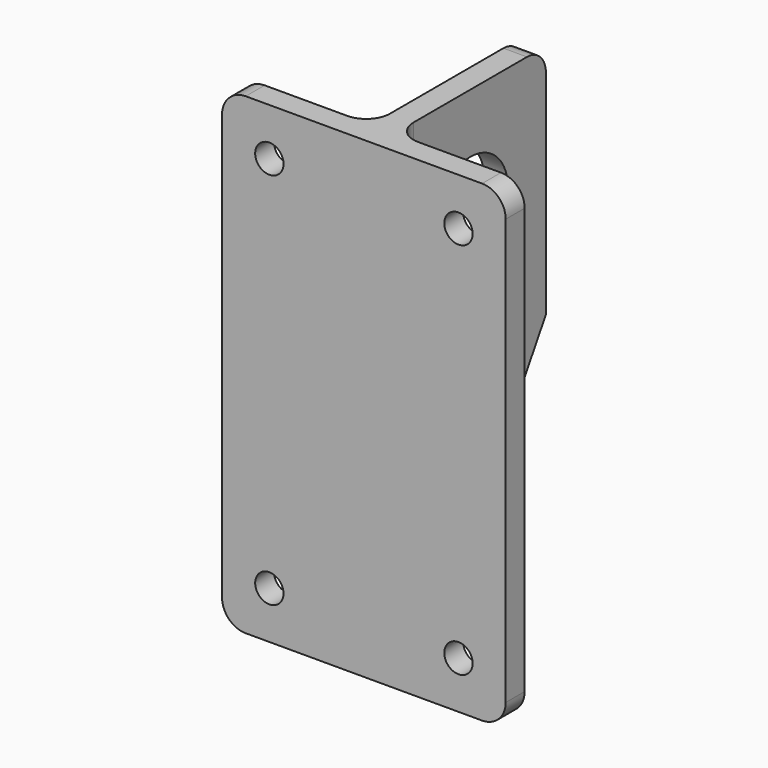
from build123d import *

# Parameters (mm, degrees)
PAD_DEPTH       = 200
POCKET_DEPTH    = 65.001
POCKET001_DEPTH = 65.001
SKETCH003_R     = 6
POCKET002_DEPTH = 90.001
FILLET_R        = 10
FILLET001_R     = 10


with BuildPart() as part:
    # Sketch → Pad (new body)
    with BuildSketch(Plane.XY):
        Polygon((60, 0), (60, -10), (-60, -10), (-60, 0), (-5, 0), (-5, 80), (5, 80), (5, 0), align=None)
    extrude(amount=PAD_DEPTH)

    # Sketch001 → Pocket (cut, through all)
    with BuildSketch(Plane.YZ.offset(5)):
        Polygon((20, 0), (80, 0), (80, 100), align=None)
    extrude(amount=-POCKET_DEPTH, mode=Mode.SUBTRACT)

    # Sketch002 → Pocket001 (cut, through all)
    with BuildSketch(Plane(origin=(-5, 0, 0), x_dir=(0, -1, 0), z_dir=(-1, 0, 0))):
        with BuildLine():
            ThreePointArc((-20, 155), (-40, 175), (-60, 155))
            Line((-60, 155), (-60, 115))
            ThreePointArc((-60, 115), (-40, 95), (-20, 115))
            Line((-20, 155), (-20, 115))
        make_face()
    extrude(amount=-POCKET001_DEPTH, mode=Mode.SUBTRACT)

    # Sketch003 → Pocket002 (cut, through all)
    with BuildSketch(Plane.XZ.offset(10)):
        with Locations((-40, 180)):
            Circle(SKETCH003_R)
        with Locations((40, 180)):
            Circle(SKETCH003_R)
        with Locations((-40, 20)):
            Circle(SKETCH003_R)
        with Locations((40, 20)):
            Circle(SKETCH003_R)
    extrude(amount=-POCKET002_DEPTH, mode=Mode.SUBTRACT)

    # Fillet
    fillet_edges = [part.edges().sort_by_distance(p)[0] for p in [
        (5, 0, 100),
        (-5, 0, 100),
    ]]
    fillet(fillet_edges, radius=FILLET_R)

    # Fillet001
    fillet001_edges = [part.edges().sort_by_distance(p)[0] for p in [
        (-60, -5, 200),
        (60, -5, 200),
        (60, -5, 0),
        (-60, -5, 0),
        (0, 20, 0),
        (0, 80, 200),
    ]]
    fillet(fillet001_edges, radius=FILLET001_R)


solid = part.part
